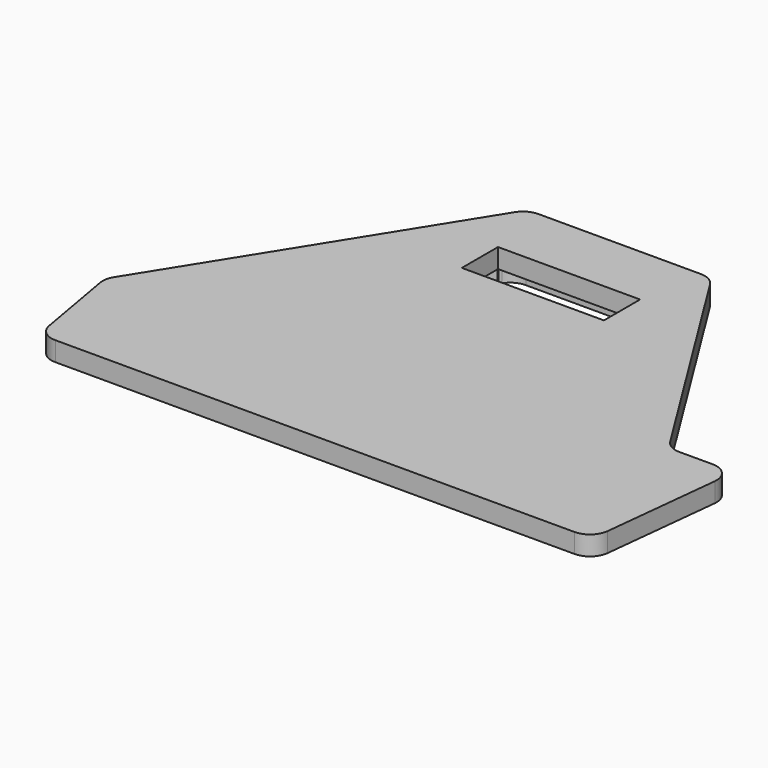
from build123d import *

# Parameters (mm, degrees)
F1_DEPTH = 1.5
F3_DEPTH = 1
F5_DEPTH = 1.5
F6_R     = 1.5
F7_W     = 11
F7_H     = 3.5
F8_DEPTH = 25


with BuildPart() as f1:
    # F0 (on Top) → F1 (new body)
    with BuildSketch(Plane.XY):
        Polygon((6.468732, 38.072392), (-7.768678, 38.072392), (-22.119725, 15.095294), (-20.680386, 6.932392), (19.38044, 6.932392), (20.81978, 15.095294), align=None)
    extrude(amount=F1_DEPTH)

    # F2 (on face) → F3 (join)
    with BuildSketch(Plane(origin=(0, 0, 0), x_dir=(1, 0, 0), z_dir=(0, 0, -1))):
        Polygon((-18.163087, -9.932392), (-18.965392, -14.482494), (-6.105343, -35.072392), (4.805398, -35.072392), (17.665447, -14.482494), (16.863141, -9.932392), align=None)
        Polygon((4.250953, -34.072392), (-5.550899, -34.072392), (-17.913948, -14.278227), (-17.323987, -10.932392), (16.024041, -10.932392), (16.614002, -14.278227), align=None, mode=Mode.SUBTRACT)
    extrude(amount=F3_DEPTH)

    # F4 (on face) → F5 (join)
    with BuildSketch(Plane(origin=(0, 0, 0), x_dir=(1, 0, 0), z_dir=(0, 0, -1))):
        Polygon((16.863141, -6.932392), (16.863141, -9.932392), (16.586395, -19.072392), (23.415447, -19.072392), (22.113141, -6.932392), align=None)
    extrude(amount=-F5_DEPTH)

    # F6
    f6_edges = [f1.edges().sort_by_distance(p)[0] for p in [
        (23.415447, 19.072392, 0.75),
        (18.335762, 19.072392, 0.75),
        (22.113141, 6.932392, 0.75),
        (-20.680386, 6.932392, 0.75),
        (-22.119725, 15.095294, 0.75),
        (-7.768678, 38.072392, 0.75),
        (6.468732, 38.072392, 0.75),
        (4.805398, 35.072392, -0.5),
        (-6.105343, 35.072392, -0.5),
        (-18.965392, 14.482494, -0.5),
        (-18.163087, 9.932392, -0.5),
        (16.863141, 9.932392, -0.5),
        (17.665447, 14.482494, -0.5),
        (-17.323987, 10.932392, -0.5),
        (-17.913948, 14.278227, -0.5),
        (-5.550899, 34.072392, -0.5),
        (4.250953, 34.072392, -0.5),
        (16.024041, 10.932392, -0.5),
        (16.614002, 14.278227, -0.5),
    ]]
    fillet(f6_edges, radius=F6_R)

    # F7 (on face) → F8 (cut)
    with BuildSketch(Plane.XY.offset(1.5)):
        with Locations((-0.649973, 31.422392)):
            Rectangle(F7_W, F7_H)
    extrude(amount=-F8_DEPTH, mode=Mode.SUBTRACT)


solid = f1.part
